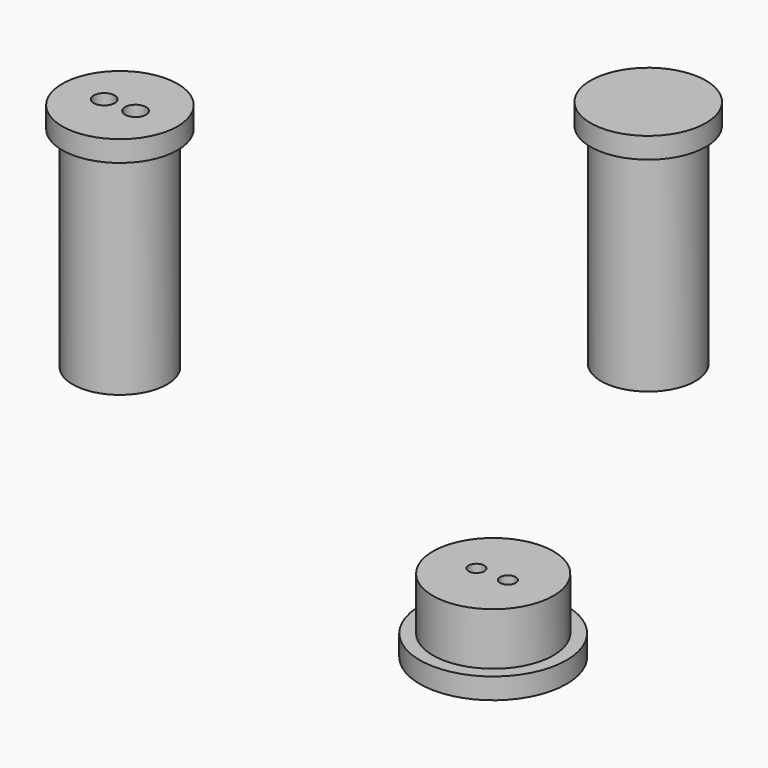
from build123d import *

# Parameters (mm, degrees)
F0_R      = 4.5
F1_DEPTH  = 20
F2_R      = 5.5
F2_R_2    = 4.5
F3_DEPTH  = 2
F4_R      = 3
F5_DEPTH  = 20
F6_R      = 5.75
F7_DEPTH  = 5
F8_R      = 0.75
F9_DEPTH  = 22.001
F10_R     = 7
F10_R_2   = 5.75
F10_R_3   = 0.75
F11_DEPTH = 2
F13_R     = 1
F14_DEPTH = 24.001


with BuildPart() as f1:
    # F0 (on Top) → F1 (new body)
    with BuildSketch(Plane.XY):
        Circle(F0_R)
    extrude(amount=F1_DEPTH)

    # F2 (on face) → F3 (join)
    with BuildSketch(Plane.XY.offset(20)):
        Circle(F2_R)
        Circle(F2_R_2, mode=Mode.SUBTRACT)
        Circle(F2_R_2)
    extrude(amount=F3_DEPTH)

    # F4 (on face) → F5 (cut, through all)
    with BuildSketch(Plane(origin=(0, 0, 0), x_dir=(1, 0, 0), z_dir=(0, 0, -1))):
        Circle(F4_R)
    extrude(amount=-F5_DEPTH, mode=Mode.SUBTRACT)


with BuildPart() as f7:
    # F6 (on Top) → F7 (new body)
    with BuildSketch(Plane.XY):
        with Locations((48.5305674374, -16.1488559097)):
            Circle(F6_R)
    extrude(amount=F7_DEPTH)

    # F8 (on face) → F9 (cut, through all)
    with BuildSketch(Plane(origin=(0, 0, 0), x_dir=(1, 0, 0), z_dir=(0, 0, -1))):
        with Locations((47.0305674374, 16.2715443097)):
            Circle(F8_R)
        with Locations((50.0305674374, 16.2715443097)):
            Circle(F8_R)
    extrude(amount=-F9_DEPTH, mode=Mode.SUBTRACT)

    # F10 (on face) → F11 (join)
    with BuildSketch(Plane(origin=(0, 0, 0), x_dir=(1, 0, 0), z_dir=(0, 0, -1))):
        with Locations((48.5305674374, 16.1488559097)):
            Circle(F10_R)
        with Locations((48.5305674374, 16.1488559097)):
            Circle(F10_R_2, mode=Mode.SUBTRACT)
        with Locations((48.5305674374, 16.1488559097)):
            Circle(F10_R_2)
        with Locations((47.0305674374, 16.2715443097)):
            Circle(F10_R_3, mode=Mode.SUBTRACT)
        with Locations((50.0305674374, 16.2715443097)):
            Circle(F10_R_3, mode=Mode.SUBTRACT)
    extrude(amount=F11_DEPTH)


with BuildPart() as f12_1:
    # F12: copy of F1
    add(f1.part.moved(Location((30.4, 25, 0))))


with BuildPart() as f1_1:
    add(f1.part)

    # F13 (on face) → F14 (cut, through all)
    with BuildSketch(Plane.XY.offset(22)):
        with Locations((-1.5, 0)):
            Circle(F13_R)
        with BuildLine():
            ThreePointArc((0.5, 0), (1.5, -1), (2.5, 0))
            ThreePointArc((2.5, 0), (1.5, 1), (0.5, 0))
        make_face()
    extrude(amount=-F14_DEPTH, mode=Mode.SUBTRACT)


solid = Compound([f7.part, f12_1.part, f1_1.part])
